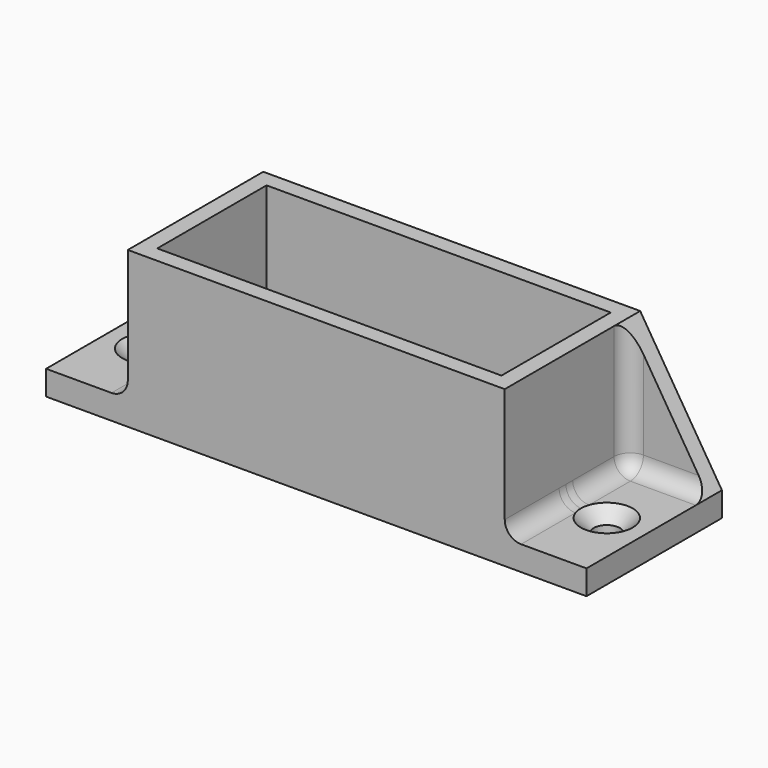
from build123d import *

# Parameters (mm, degrees)
F0_W           = 84.22
F0_H           = 33.42
F0_W_2         = 20
F0_H_2         = 4
F1_DEPTH       = 38.1
F0_H_3         = 37.42
F2_DEPTH       = 6
F4_D           = 6.35
F4_CSINK_D     = 12.7
F4_CSINK_ANGLE = 90
F6_DEPTH       = 25
F7_R           = 4


with BuildPart() as f1:
    # F0 (on Top) → F1 (new body)
    with BuildSketch(Plane.XY):
        Polygon((46.11, 16.71), (46.11, 20.71), (-46.11, 20.71), (-46.11, 16.71), (-46.11, -20.71), (46.11, -20.71), align=None)
        Rectangle(F0_W, F0_H, mode=Mode.SUBTRACT)
        with Locations((56.11, 18.71)):
            Rectangle(F0_W_2, F0_H_2)
        with Locations((-56.11, 18.71)):
            Rectangle(F0_W_2, F0_H_2)
    extrude(amount=F1_DEPTH)

    # F0 (on Top) → F2 (join)
    with BuildSketch(Plane.XY):
        with Locations((-56.11, -2)):
            Rectangle(F0_W_2, F0_H_3)
        with Locations((56.11, -2)):
            Rectangle(F0_W_2, F0_H_3)
        Rectangle(F0_W, F0_H)
    extrude(amount=F2_DEPTH)

    # F4 (through all)
    with Locations(Plane.XY.offset(6)):
        with Locations((-56.11, -2), (56.11, -2)):
            CounterSinkHole(F4_D / 2, F4_CSINK_D / 2, counter_sink_angle=F4_CSINK_ANGLE)

    # F5 (on face) → F6 (cut)
    with BuildSketch(Plane(origin=(0, 20.71, 0), x_dir=(-1, 0, 0), z_dir=(0, 1, 0))):
        Polygon((-66.11, 6), (-46.11, 38.1), (-66.11, 38.1), align=None)
        Polygon((66.11, 38.1), (46.11, 38.1), (66.11, 6), align=None)
    extrude(amount=-F6_DEPTH, mode=Mode.SUBTRACT)

    # F7
    f7_edges = [f1.edges().sort_by_distance(p)[0] for p in [
        (46.11, 16.71, 22.05),
        (-46.11, 16.71, 22.05),
        (-46.11, -2, 6),
        (-56.11, 16.71, 6),
        (46.11, -2, 6),
        (56.11, 16.71, 6),
    ]]
    fillet(f7_edges, radius=F7_R)


solid = f1.part
